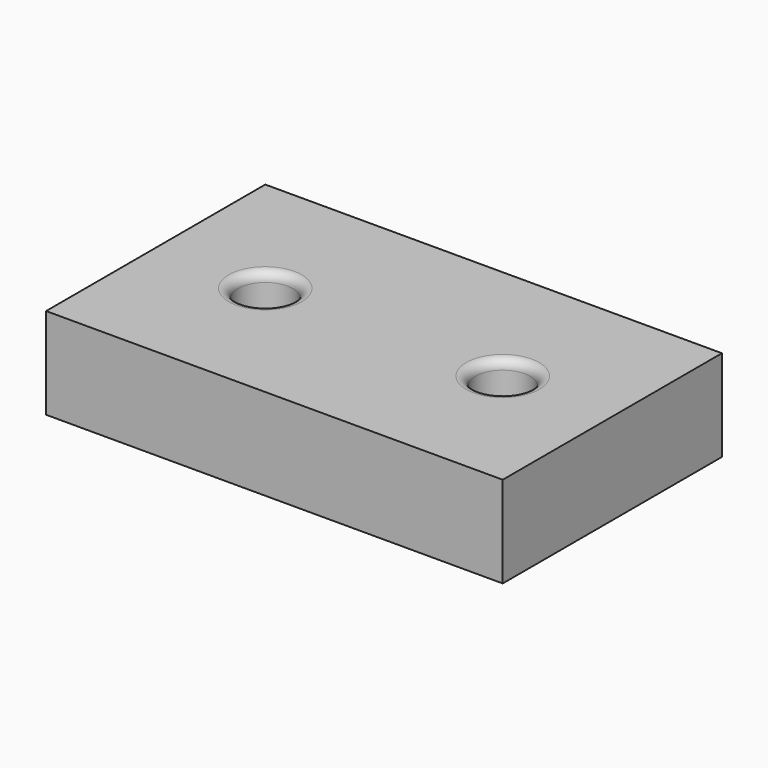
from build123d import *

# Parameters (mm, degrees)
F0_W     = 50
F0_H     = 30
F0_R     = 3
F1_DEPTH = 10
F2_R     = 1


with BuildPart() as f1:
    # F0 (on Top) → F1 (new body)
    with BuildSketch(Plane.XY):
        with Locations((-25, 15)):
            Rectangle(F0_W, F0_H)
        with Locations((-38, 15)):
            Circle(F0_R, mode=Mode.SUBTRACT)
        with Locations((-12, 15)):
            Circle(F0_R, mode=Mode.SUBTRACT)
    extrude(amount=F1_DEPTH)

    # F2
    f2_edges = [f1.edges().sort_by_distance(p)[0] for p in [
        (-41, 15, 10),
        (-15, 15, 10),
    ]]
    fillet(f2_edges, radius=F2_R)


solid = f1.part
